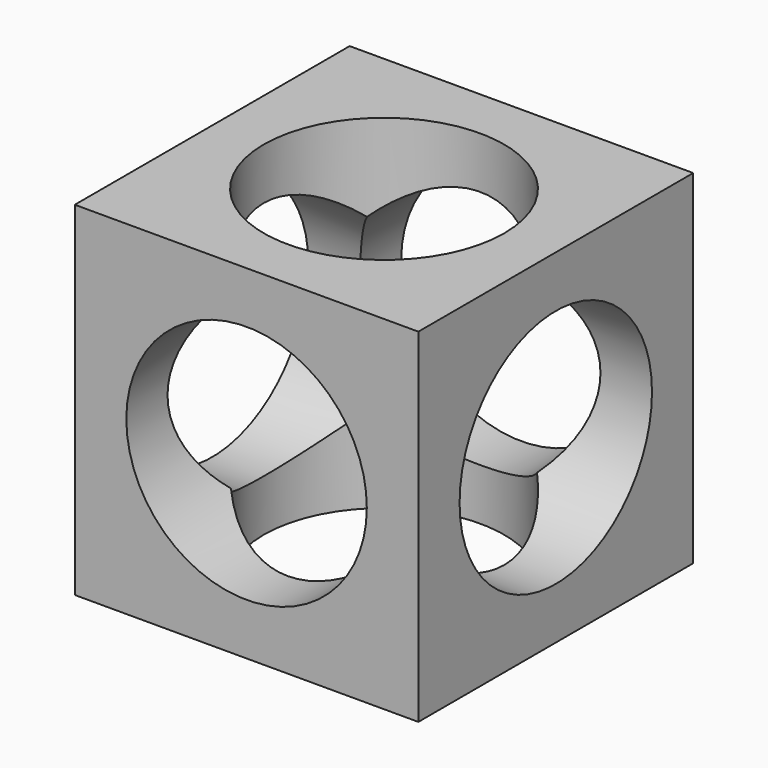
from build123d import *

# Parameters (mm, degrees)
F0_W     = 50
F0_H     = 50
F1_DEPTH = 50
F2_R     = 17.5
F3_DEPTH = 50.001
F4_R     = 17.5
F5_DEPTH = 50.001
F6_R     = 17.5
F7_DEPTH = 50.001


with BuildPart() as f1:
    # F0 (on Front) → F1 (new body)
    with BuildSketch(Plane.XZ):
        Rectangle(F0_W, F0_H)
    extrude(amount=F1_DEPTH)

    # F2 (on face) → F3 (cut, through all)
    with BuildSketch(Plane.XZ.offset(50)):
        Circle(F2_R)
    extrude(amount=-F3_DEPTH, mode=Mode.SUBTRACT)

    # F4 (on face) → F5 (cut, through all)
    with BuildSketch(Plane.XY.offset(25)):
        with Locations((0, -25)):
            Circle(F4_R)
    extrude(amount=-F5_DEPTH, mode=Mode.SUBTRACT)

    # F6 (on face) → F7 (cut, through all)
    with BuildSketch(Plane.YZ.offset(25)):
        with Locations((-25, 0)):
            Circle(F6_R)
    extrude(amount=-F7_DEPTH, mode=Mode.SUBTRACT)


solid = f1.part
